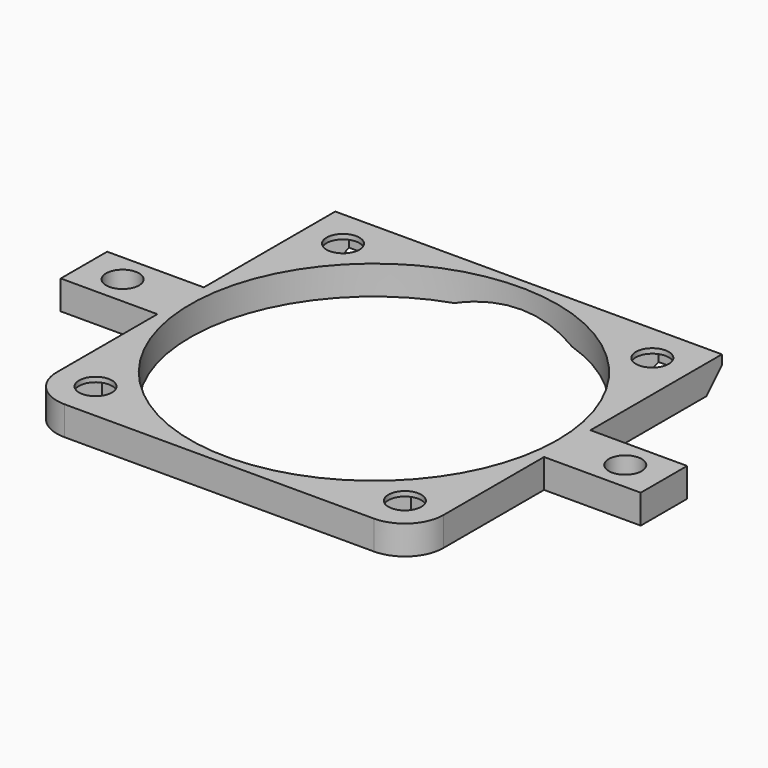
from build123d import *

# Parameters (mm, degrees)
SKETCH_R        = 19
SKETCH_R_2      = 1.7
PAD_DEPTH       = 3
POCKET_DEPTH    = 50.001
POCKET001_DEPTH = 5
POCKET002_DEPTH = 2.5


with BuildPart() as part:
    # Sketch → Pad (new body)
    with BuildSketch(Plane.XY):
        Polygon((-20, 20), (20, 20), (20, 3), (30, 3), (30, -3), (20, -3), (20, -20), (-20, -20), (-20, -3), (-30, -3), (-30, 3), (-20, 3), align=None)
        Circle(SKETCH_R, mode=Mode.SUBTRACT)
        with Locations((-16, 16)):
            Circle(SKETCH_R_2, mode=Mode.SUBTRACT)
        with Locations((16, 16)):
            Circle(SKETCH_R_2, mode=Mode.SUBTRACT)
        with Locations((-16, -16)):
            Circle(SKETCH_R_2, mode=Mode.SUBTRACT)
        with Locations((16, -16)):
            Circle(SKETCH_R_2, mode=Mode.SUBTRACT)
        with Locations((26, 0)):
            Circle(SKETCH_R_2, mode=Mode.SUBTRACT)
        with Locations((-26, 0)):
            Circle(SKETCH_R_2, mode=Mode.SUBTRACT)
    extrude(amount=PAD_DEPTH)

    # Sketch001 (on Face12 of Pad) → Pocket (cut, through all)
    with BuildSketch(Plane(origin=(-20, 0, 0), x_dir=(0, -1, 0), z_dir=(-1, 0, 0))):
        Polygon((-18, 0), (-20, 2), (-20, 0), align=None)
    extrude(amount=-POCKET_DEPTH, mode=Mode.SUBTRACT)

    # Sketch002 (on Face4 of Pocket) → Pocket001 (cut)
    with BuildSketch(Plane.XY.offset(3)):
        with BuildLine():
            ThreePointArc((-20, -15.999985), (-18.828433, -18.828421), (-16.000001, -20))
            Line((-16.000001, -20), (-16.000001, -25))
            Line((-16.000001, -25), (-25, -25))
            Line((-25, -25), (-25, -15.999985))
            Line((-25, -15.999985), (-20, -15.999985))
        make_face()
        with BuildLine():
            ThreePointArc((16.000017, -20), (18.828428, -18.828426), (20, -16.000015))
            Line((25, -16.000015), (20, -16.000015))
            Line((25, -25), (25, -16.000015))
            Line((16.000017, -25), (25, -25))
            Line((16.000017, -20), (16.000017, -25))
        make_face()
    extrude(amount=-POCKET001_DEPTH, mode=Mode.SUBTRACT)

    # Sketch003 (on Face6 of Pocket001) → Pocket002 (cut)
    with BuildSketch(Plane(origin=(0, 0, 0), x_dir=(1, 0, 0), z_dir=(0, 0, -1))):
        Polygon((14.325, 13.098815), (17.675, 13.098815), (19.35, 16), (17.675, 18.901185), (14.325, 18.901185), (12.65, 16), align=None)
        Polygon((-14.325, 13.098815), (-12.65, 16), (-14.325, 18.901185), (-17.675, 18.901185), (-19.35, 16), (-17.675, 13.098815), align=None)
        Polygon((-14.325, -13.098815), (-17.675, -13.098815), (-19.35, -16), (-17.675, -18.901185), (-14.325, -18.901185), (-12.65, -16), align=None)
        Polygon((14.325, -13.098815), (12.65, -16), (14.325, -18.901185), (17.675, -18.901185), (19.35, -16), (17.675, -13.098815), align=None)
    extrude(amount=-POCKET002_DEPTH, mode=Mode.SUBTRACT)


solid = part.part
